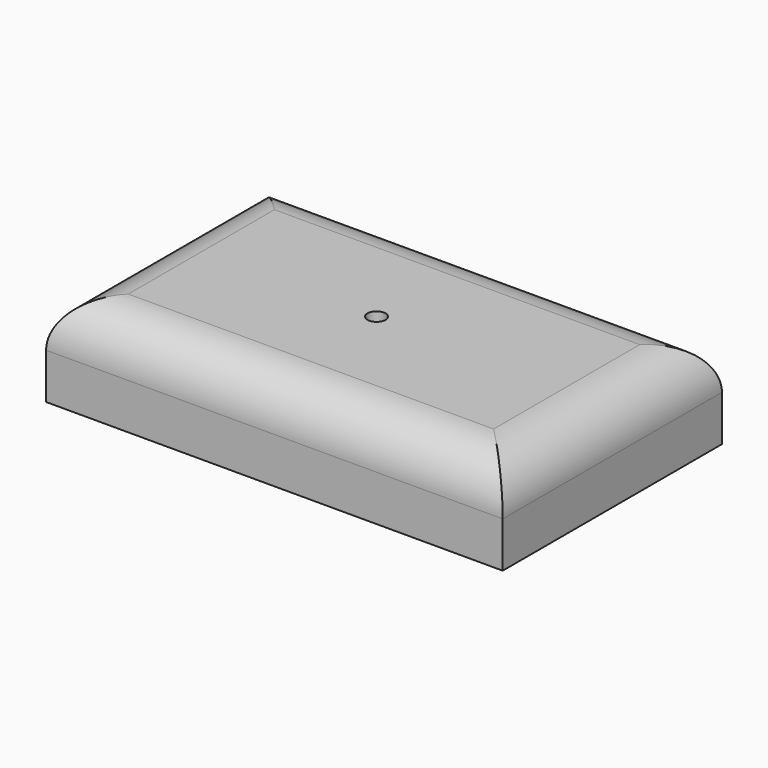
from build123d import *

# Parameters (mm, degrees)
F0_W     = 127
F0_H     = 76.2
F1_DEPTH = 25.4
F2_R     = 2.5
F3_DEPTH = 25.4
F4_R     = 12.7


with BuildPart() as f1:
    # F0 (on Top) → F1 (new body)
    with BuildSketch(Plane.XY):
        Rectangle(F0_W, F0_H)
    extrude(amount=F1_DEPTH)

    # F2 (on face) → F3 (cut)
    with BuildSketch(Plane.XY.offset(25.4)):
        with Locations((-2.076801, 0)):
            Circle(F2_R)
    extrude(amount=-F3_DEPTH, mode=Mode.SUBTRACT)

    # F4
    f4_edges = [f1.edges().sort_by_distance(p)[0] for p in [
        (63.5, 0, 25.4),
        (0, 38.1, 25.4),
        (0, -38.1, 25.4),
        (-63.5, 0, 25.4),
    ]]
    fillet(f4_edges, radius=F4_R)


solid = f1.part
